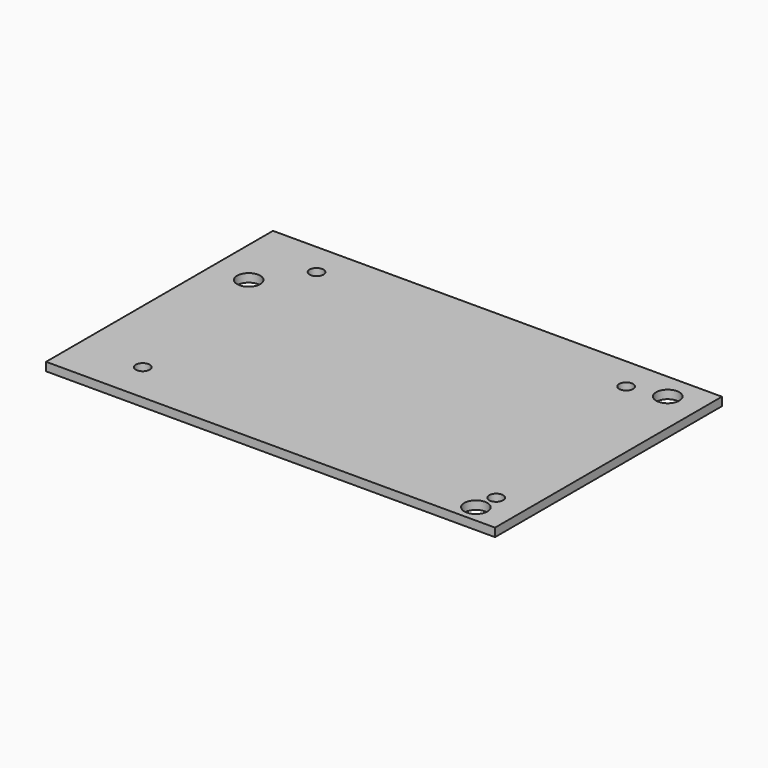
from build123d import *

# Parameters (mm, degrees)
F0_W     = 106.7152023315
F0_H     = 67.4116164446
F1_DEPTH = 2
F2_D     = 5.5
F2_DEPTH = 18
F2_TIP   = 1.6523667023
F4_D     = 3.3
F4_DEPTH = 18
F4_TIP   = 0.9914200214


with BuildPart() as f1:
    # F0 (on Top) → F1 (new body)
    with BuildSketch(Plane.XY):
        with Locations((-19.7555795312, 1.5103928745)):
            Rectangle(F0_W, F0_H)
    extrude(amount=F1_DEPTH)

    # F2
    with Locations(Plane(origin=(0, 0, 0), x_dir=(1, 0, 0), z_dir=(0, 0, -1))):
        with Locations((-64.3030628562, -16.9964022934), (25.6969371438, -28.9964022934), (25.6969371438, 28.0035977066)):
            Hole(F2_D / 2, depth=F2_DEPTH)
            with Locations((0, 0, -(F2_DEPTH + F2_TIP / 2))):  # 118° drill point
                Cone(0, F2_D / 2, F2_TIP, mode=Mode.SUBTRACT)

    # F4
    with Locations(Plane.XY.offset(2)):
        with Locations((-56.4374391407, 27.3174114525), (17.1625608593, 27.3174114525), (-57.7374391407, -22.6825885475), (26.2625608593, -22.6825885475)):
            Hole(F4_D / 2, depth=F4_DEPTH)
            with Locations((0, 0, -(F4_DEPTH + F4_TIP / 2))):  # 118° drill point
                Cone(0, F4_D / 2, F4_TIP, mode=Mode.SUBTRACT)


solid = f1.part
